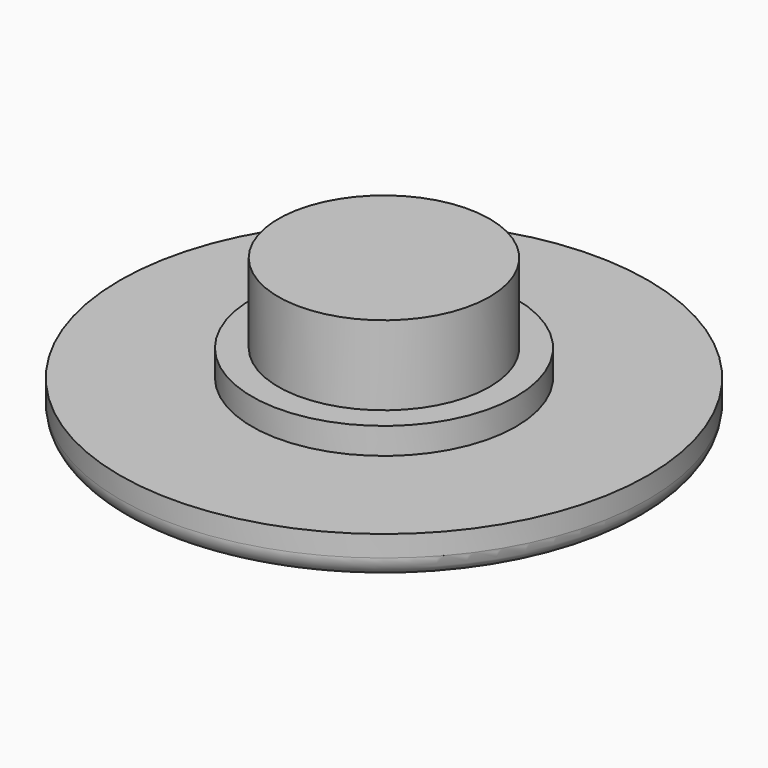
from build123d import *

# Parameters (mm, degrees)
F0_R     = 10
F1_DEPTH = 1.6
F2_R     = 5
F3_DEPTH = 1
F4_R     = 4
F5_DEPTH = 3
F6_R     = 0.8


with BuildPart() as f1:
    # F0 (on Top) → F1 (new body)
    with BuildSketch(Plane.XY):
        Circle(F0_R)
    extrude(amount=F1_DEPTH)

    # F2 (on face) → F3 (join)
    with BuildSketch(Plane.XY.offset(1.6)):
        Circle(F2_R)
    extrude(amount=F3_DEPTH)

    # F6
    f6_edges = [f1.edges().sort_by_distance(p)[0] for p in [
        (-10, 0, 0),
    ]]
    fillet(f6_edges, radius=F6_R)


with BuildPart() as f5:
    # F4 (on face) → F5 (new body)
    with BuildSketch(Plane.XY.offset(2.6)):
        Circle(F4_R)
    extrude(amount=F5_DEPTH)


solid = Compound([f1.part, f5.part])
